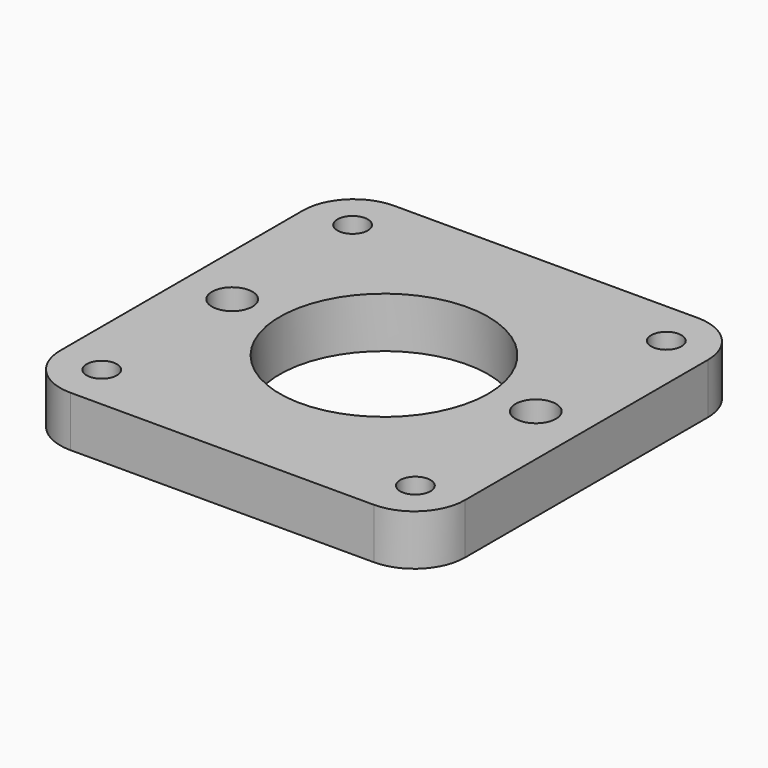
from build123d import *

# Parameters (mm, degrees)
F0_W     = 40
F0_H     = 40
F1_DEPTH = 5
F2_R     = 10.3
F3_DEPTH = 5.001
F6_D     = 3
F7_D     = 4
F8_R     = 5


with BuildPart() as f1:
    # F0 (on Top) → F1 (new body)
    with BuildSketch(Plane.XY):
        Rectangle(F0_W, F0_H)
    extrude(amount=F1_DEPTH)

    # F2 (on face) → F3 (cut, through all)
    with BuildSketch(Plane.XY.offset(5)):
        Circle(F2_R)
    extrude(amount=-F3_DEPTH, mode=Mode.SUBTRACT)

    # F6 (through all)
    with Locations(Plane.XY.offset(5)):
        with Locations((-15.5, 15.5), (15.5, 15.5), (15.5, -15.5), (-15.5, -15.5)):
            Hole(F6_D / 2)

    # F7 (through all)
    with Locations(Plane.XY.offset(5)):
        with Locations((-15, 0), (15, 0)):
            Hole(F7_D / 2)

    # F8
    f8_edges = [f1.edges().sort_by_distance(p)[0] for p in [
        (-20, 20, 2.5),
        (20, 20, 2.5),
        (-20, -20, 2.5),
        (20, -20, 2.5),
    ]]
    fillet(f8_edges, radius=F8_R)


solid = f1.part
